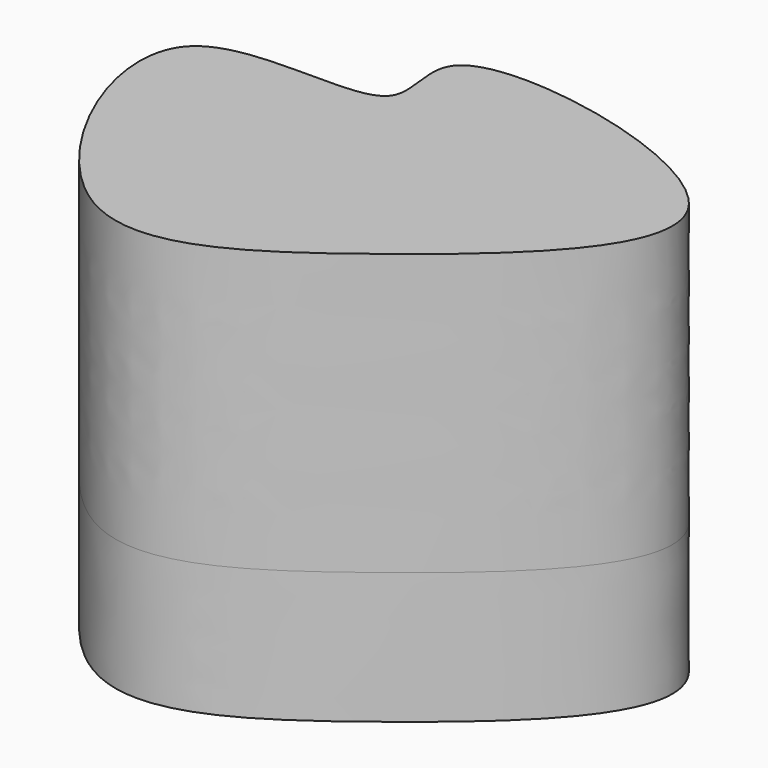
from build123d import *

# Parameters (mm, degrees)
F1_DEPTH = 25.4
F2_DEPTH = 79.63248


with BuildPart() as f1:
    # F0 (on Top) → F1 (new body)
    with BuildSketch(Plane.XY):
        with BuildLine():
            add(Edge.make_bspline(
                [(-45.5231182277, 31.1813801527), (-38.4013306025, 38.6555224792), (-1.891245003, 28.7507173519), (-22.6628533983, 63.2703807769), (74.454570325, 42.7536206323), (17.9917126671, -6.7053943387), (-26.8230405484, -36.0991829191), (-54.333660593, 21.9349309356), (-45.5231182277, 31.1813801527)],
                knots=[0, 0, 0, 0, 0.1525877655, 0.2517198755, 0.4501837962, 0.6332970694, 0.8112298424, 1, 1, 1, 1], degree=3))
        make_face()
    extrude(amount=F1_DEPTH)

    # F0 (on Top) → F2 (join)
    with BuildSketch(Plane.XY):
        with BuildLine():
            add(Edge.make_bspline(
                [(-45.5231182277, 31.1813801527), (-38.4013306025, 38.6555224792), (-1.891245003, 28.7507173519), (-22.6628533983, 63.2703807769), (74.454570325, 42.7536206323), (17.9917126671, -6.7053943387), (-26.8230405484, -36.0991829191), (-54.333660593, 21.9349309356), (-45.5231182277, 31.1813801527)],
                knots=[0, 0, 0, 0, 0.1525877655, 0.2517198755, 0.4501837962, 0.6332970694, 0.8112298424, 1, 1, 1, 1], degree=3))
        make_face()
    extrude(amount=F2_DEPTH)


solid = f1.part
